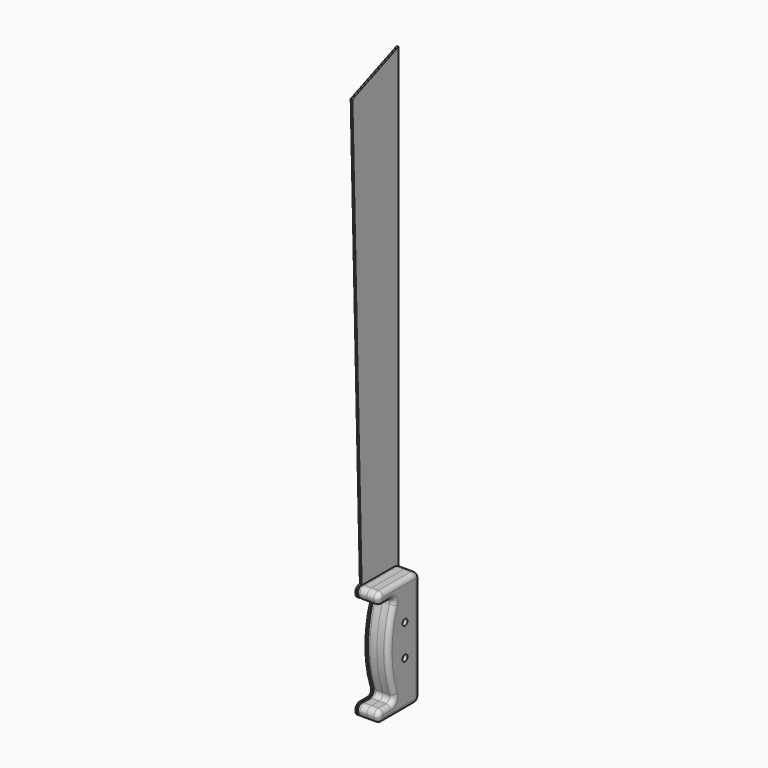
from build123d import *

# Parameters (mm, degrees)
F0_R     = 3.442574
F0_R_2   = 3.35685
F1_DEPTH = 12.7
F2_R     = 5.08
F4_R     = 3.442574
F4_R_2   = 3.35685
F5_DEPTH = 1.89738


with BuildPart() as f1:
    # F0 (on Right) → F1 (new body)
    with BuildSketch(Plane.YZ):
        with BuildLine():
            Line((23.325471, -67.054919), (23.325471, 47.245081))
            ThreePointArc((23.325471, 47.245081), (21.465599, 51.73521), (16.975471, 53.595081))
            Line((16.975471, 53.595081), (-27.474529, 53.595081))
            ThreePointArc((-27.474529, 53.595081), (-31.964657, 51.73521), (-33.824529, 47.245081))
            ThreePointArc((-33.824529, 47.245081), (-31.964657, 42.754953), (-27.474529, 40.895081))
            Line((-27.474529, 40.895081), (-9.415587, 40.895081))
            Line((-9.415587, 40.895081), (-9.415587, -60.704919))
            Line((-9.415587, -60.704919), (-27.474529, -60.704919))
            ThreePointArc((-27.474529, -60.704919), (-31.964657, -62.56479), (-33.824529, -67.054919))
            ThreePointArc((-33.824529, -67.054919), (-31.964657, -71.545047), (-27.474529, -73.404919))
            Line((-27.474529, -73.404919), (16.975471, -73.404919))
            ThreePointArc((16.975471, -73.404919), (21.465599, -71.545047), (23.325471, -67.054919))
        make_face()
        with Locations((3.043987, -22.84038)):
            Circle(F0_R, mode=Mode.SUBTRACT)
        with Locations((3.043987, 11.899044)):
            Circle(F0_R_2, mode=Mode.SUBTRACT)
        with BuildLine():
            Line((-9.415587, -60.704919), (-9.415587, 40.895081))
            ThreePointArc((-9.415587, 40.895081), (-20.005104, -9.904919), (-9.415587, -60.704919))
        make_face()
    extrude(amount=F1_DEPTH)

    # F2
    f2_edges = [f1.edges().sort_by_distance(p)[0] for p in [
        (0, -5.249529, 53.595081),
        (0, -20.005104, -9.904919),
        (6.35, -9.415587, 40.895081),
        (6.35, -9.415587, -60.704919),
    ]]
    fillet(f2_edges, radius=F2_R)


with BuildPart() as f3_1:
    # F3: instance of F1
    add(f1.part.mirror(Plane(origin=(12.7, 1.082307, -9.958647), x_dir=(0, 1, 0), z_dir=(1, 0, 0))))


with BuildPart() as f5:
    # F4 (on Right) → F5 (new body)
    with BuildSketch(Plane.YZ):
        with BuildLine():
            ThreePointArc((-27.474529, 53.595081), (-33.824529, 47.245081), (-27.474529, 40.895081))
            Line((-27.474529, 40.895081), (-16.929072, 40.895081))
            ThreePointArc((-16.929072, 40.895081), (-12.761958, 38.720517), (-12.162425, 34.058529))
            ThreePointArc((-12.162425, 34.058529), (-20.005104, -9.904919), (-12.162425, -53.868366))
            ThreePointArc((-12.162425, -53.868366), (-12.761958, -58.530354), (-16.929072, -60.704919))
            Line((-16.929072, -60.704919), (-27.474529, -60.704919))
            ThreePointArc((-27.474529, -60.704919), (-33.824529, -67.054919), (-27.474529, -73.404919))
            Line((-27.474529, -73.404919), (16.975471, -73.404919))
            ThreePointArc((16.975471, -73.404919), (21.465599, -71.545047), (23.325471, -67.054919))
            Line((23.325471, -67.054919), (23.325471, 47.245081))
            Line((23.325471, 47.245081), (23.325471, 555.245081))
            Line((23.325471, 555.245081), (-40.174529, 529.845081))
            Line((-40.174529, 529.845081), (-27.474529, 53.595081))
        make_face()
        with Locations((3.043987, -22.84038)):
            Circle(F4_R, mode=Mode.SUBTRACT)
        with Locations((3.043987, 11.899044)):
            Circle(F4_R_2, mode=Mode.SUBTRACT)
    extrude(amount=F5_DEPTH)


solid = Compound([f1.part, f3_1.part, f5.part])
